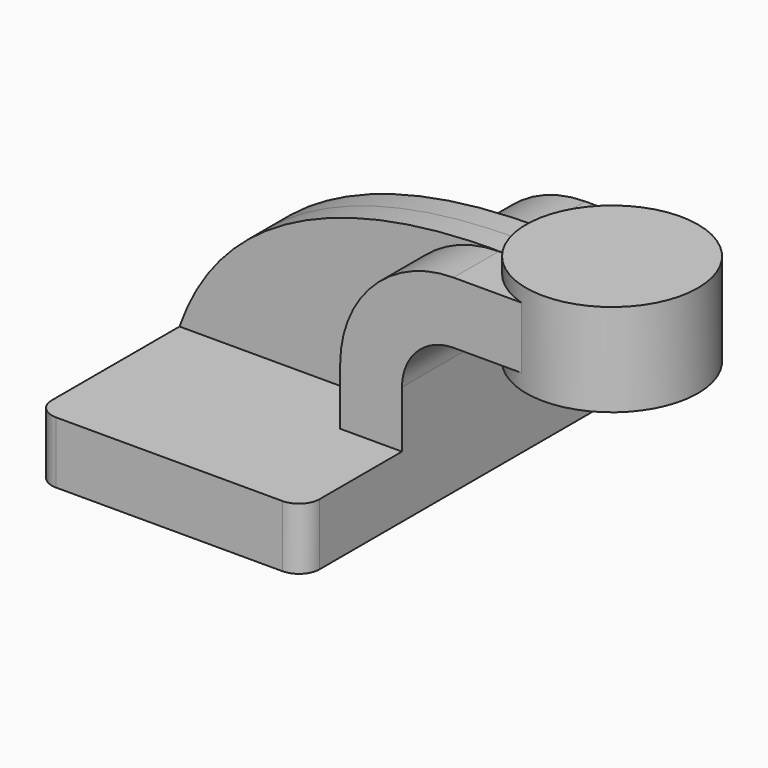
from build123d import *

# Parameters (mm, degrees)
F1_DEPTH = 63.5
F2_DEPTH = 25.4
F0_W     = 24.304205
F0_H     = 19.05
F3_DEPTH = 25.4
F5_DEPTH = 7.9375
F6_R     = 6.35


with BuildPart() as f1:
    # F0 (on Front) → F1 (new body, symmetric)
    with BuildSketch(Plane.XZ):
        Polygon((-41.275, 9.525), (-41.275, -9.525), (41.275, -9.525), (41.275, 9.525), (22.225, 9.525), align=None)
    extrude(amount=F1_DEPTH, both=True)

    # F0 (on Front) → F2 (join, symmetric)
    with BuildSketch(Plane.XZ):
        with BuildLine():
            Line((22.225, 9.525), (41.275, 9.525))
            Line((41.275, 9.525), (41.275, 27.0002))
            ThreePointArc((41.275, 27.0002), (45.92468, 38.22552), (57.15, 42.8752))
            Line((57.15, 42.8752), (61.420795, 42.8752))
            Line((61.420795, 42.8752), (61.420795, 61.9252))
            Line((61.420795, 61.9252), (57.15, 61.9252))
            ThreePointArc((57.15, 61.9252), (32.454296, 51.695904), (22.225, 27.0002))
            Line((22.225, 27.0002), (22.225, 9.525))
        make_face()
        with BuildLine():
            Line((22.225, 9.525), (41.275, 9.525))
            Line((41.275, 9.525), (41.275, 27.0002))
            ThreePointArc((41.275, 27.0002), (45.92468, 38.22552), (57.15, 42.8752))
            Line((57.15, 42.8752), (61.420795, 42.8752))
            Line((61.420795, 42.8752), (61.420795, 61.9252))
            Line((61.420795, 61.9252), (57.15, 61.9252))
            ThreePointArc((57.15, 61.9252), (32.454296, 51.695904), (22.225, 27.0002))
            Line((22.225, 27.0002), (22.225, 9.525))
        make_face()
    extrude(amount=F2_DEPTH, both=True)

    # F0 (on Front) → F3 (join, symmetric)
    with BuildSketch(Plane.XZ):
        with Locations((73.572897, 52.4002)):
            Rectangle(F0_W, F0_H)
    extrude(amount=F3_DEPTH, both=True)

    # F0 (on Front) → F4 (revolve)
    with BuildSketch(Plane.XZ):
        Polygon((85.725, 66.675), (85.725, 61.9252), (85.725, 42.8752), (85.725, 38.1), (112.220795, 38.1), (112.220795, 66.675), align=None)
    revolve(axis=Axis((85.725, 0, 54.7751), (0, 0, -1)))

    # F0 (on Front) → F5 (join, symmetric)
    with BuildSketch(Plane.XZ):
        with BuildLine():
            add(Edge.make_bspline(
                [(-41.275, 9.525), (-26.246125, 52.973336), (22.107758, 63.136719), (61.420795, 61.9252)],
                knots=[0, 0, 0, 0, 115.291835, 115.291835, 115.291835, 115.291835], degree=3))
            Line((-41.275, 9.525), (22.225, 9.525))
            Line((22.225, 9.525), (22.225, 27.0002))
            ThreePointArc((22.225, 27.0002), (32.454296, 51.695904), (57.15, 61.9252))
            Line((57.15, 61.9252), (61.420795, 61.9252))
        make_face()
    extrude(amount=F5_DEPTH, both=True)

    # F6
    f6_edges = [f1.edges().sort_by_distance(p)[0] for p in [
        (41.275, 63.5, 0),
        (-41.275, 63.5, 0),
        (-41.275, -63.5, 0),
        (41.275, -63.5, 0),
    ]]
    fillet(f6_edges, radius=F6_R)


solid = f1.part
